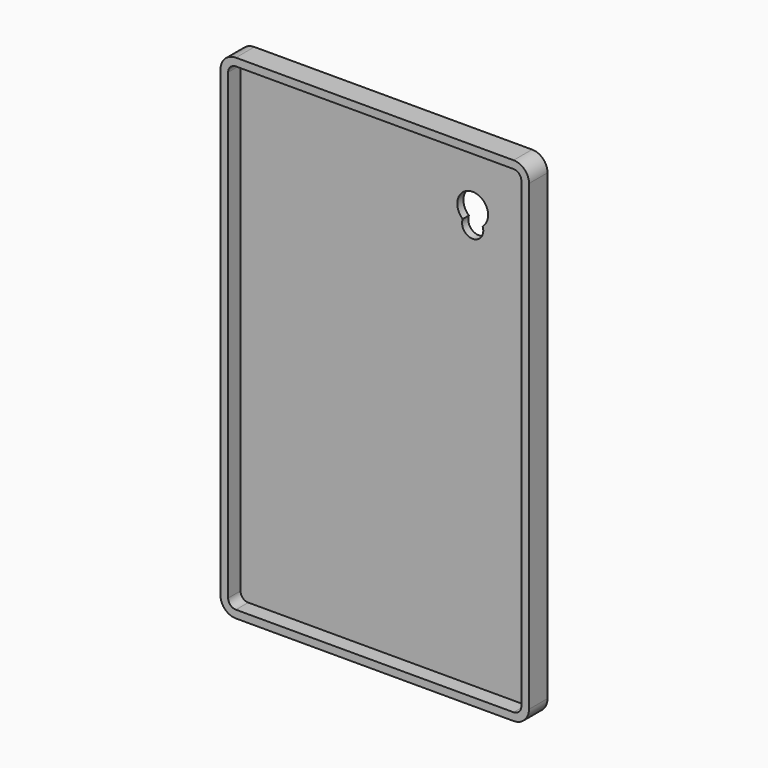
from build123d import *

# Parameters (mm, degrees)
F1_DEPTH = 9.525
F3_DEPTH = 6.35
F5_DEPTH = 3.175


with BuildPart() as f1:
    # F0 (on Front) → F1 (new body)
    with BuildSketch(Plane.XZ):
        with BuildLine():
            ThreePointArc((63.5, 95.25), (61.640128, 99.740128), (57.15, 101.6))
            Line((57.15, 101.6), (-57.15, 101.6))
            ThreePointArc((-57.15, 101.6), (-61.640128, 99.740128), (-63.5, 95.25))
            Line((-63.5, 95.25), (-63.5, -95.25))
            ThreePointArc((-63.5, -95.25), (-61.640128, -99.740128), (-57.15, -101.6))
            Line((-57.15, -101.6), (57.15, -101.6))
            ThreePointArc((57.15, -101.6), (61.640128, -99.740128), (63.5, -95.25))
            Line((63.5, -95.25), (63.5, 95.25))
        make_face()
    extrude(amount=F1_DEPTH)

    # F2 (on face) → F3 (cut)
    with BuildSketch(Plane.XZ.offset(9.525)):
        with BuildLine():
            ThreePointArc((60.325, 95.25), (59.395064, 97.495064), (57.15, 98.425))
            Line((57.15, 98.425), (-57.15, 98.425))
            ThreePointArc((-57.15, 98.425), (-59.395064, 97.495064), (-60.325, 95.25))
            Line((-60.325, 95.25), (-60.325, -95.25))
            ThreePointArc((-60.325, -95.25), (-59.395064, -97.495064), (-57.15, -98.425))
            Line((-57.15, -98.425), (57.15, -98.425))
            ThreePointArc((57.15, -98.425), (59.395064, -97.495064), (60.325, -95.25))
            Line((60.325, -95.25), (60.325, 95.25))
        make_face()
    extrude(amount=-F3_DEPTH, mode=Mode.SUBTRACT)

    # F4 (on face) → F5 (cut, through all)
    with BuildSketch(Plane.XZ.offset(3.175)):
        with BuildLine():
            ThreePointArc((31.129177, 69.260782), (35.227664, 63.396759), (39.326151, 69.260782))
            ThreePointArc((39.326151, 69.260782), (35.227664, 80.46103), (31.129177, 69.260782))
        make_face()
    extrude(amount=-F5_DEPTH, mode=Mode.SUBTRACT)


solid = f1.part
